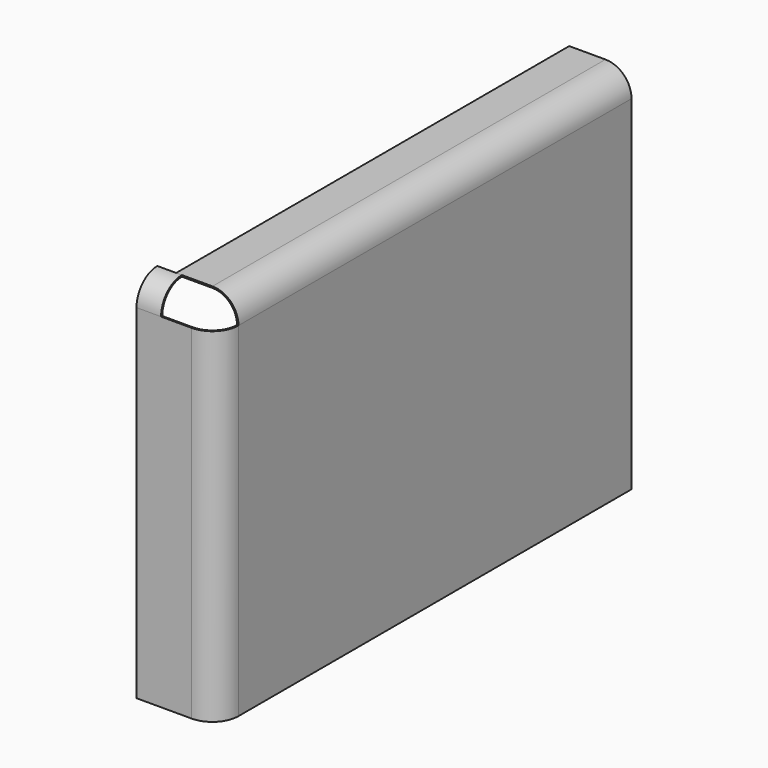
from build123d import *

# Parameters (mm, degrees)
F0_W     = 1000
F0_H     = 700
F1_DEPTH = 3
F3_DEPTH = 1000
F5_DEPTH = 700
F7_DEPTH = 50


with BuildPart() as f1:
    # F0 (on Right) → F1 (new body)
    with BuildSketch(Plane.YZ):
        Rectangle(F0_W, F0_H)
    extrude(amount=F1_DEPTH)

    # F2 (on face) → F3 (join)
    with BuildSketch(Plane(origin=(0, 500, 0), x_dir=(-1, 0, 0), z_dir=(0, 1, 0))):
        with BuildLine():
            Line((123.797374, 403), (50, 403))
            ThreePointArc((50, 403), (12.523341, 387.476659), (-3, 350))
            Line((-3, 350), (0, 350))
            ThreePointArc((0, 350), (14.644661, 385.355339), (50, 400))
            Line((50, 400), (123.797374, 400))
            Line((123.797374, 400), (123.797374, 403))
        make_face()
    extrude(amount=-F3_DEPTH)

    # F4 (on face) → F5 (join)
    with BuildSketch(Plane(origin=(0, 0, -350), x_dir=(1, 0, 0), z_dir=(0, 0, -1))):
        with BuildLine():
            Line((-162.145862, 550), (-50, 550))
            ThreePointArc((-50, 550), (-14.644661, 535.355339), (0, 500))
            Line((0, 500), (3, 500))
            ThreePointArc((3, 500), (-12.523341, 537.476659), (-50, 553))
            Line((-50, 553), (-162.145862, 553))
            Line((-162.145862, 553), (-162.145862, 550))
        make_face()
    extrude(amount=-F5_DEPTH)

    # F6 (on face) → F7 (join)
    with BuildSketch(Plane(origin=(-162.145862, 0, 0), x_dir=(0, -1, 0), z_dir=(-1, 0, 0))):
        with BuildLine():
            Line((500, 403), (500, 400))
            ThreePointArc((500, 400), (535.355339, 385.355339), (550, 350))
            Line((550, 350), (553, 350))
            ThreePointArc((553, 350), (537.476659, 387.476659), (500, 403))
        make_face()
    extrude(amount=-F7_DEPTH)


solid = f1.part
